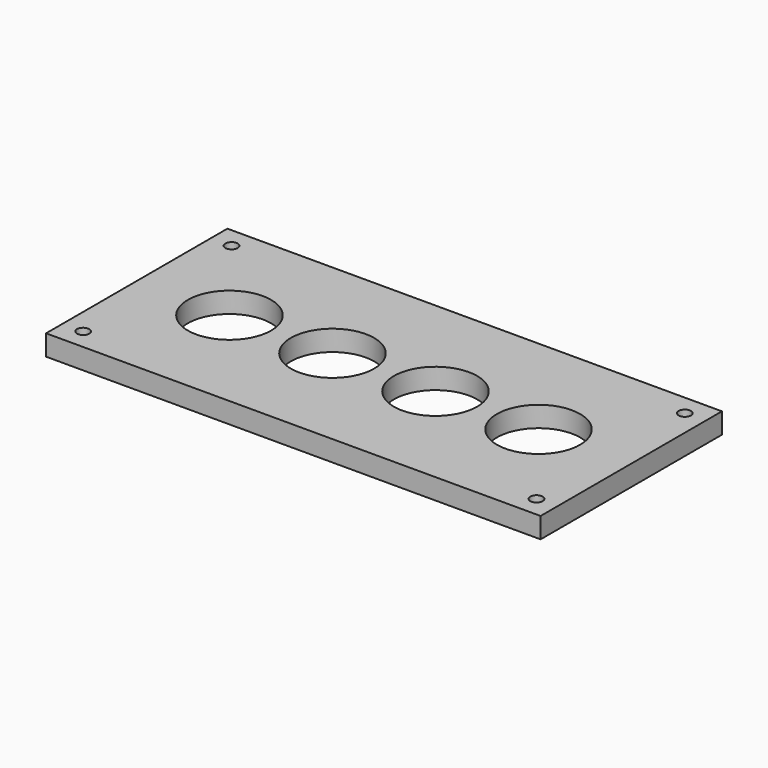
from build123d import *

# Parameters (mm, degrees)
F0_W     = 120
F0_H     = 55
F1_DEPTH = 5
F2_R     = 10.1
F3_DEPTH = 5.001
F4_R     = 1.5
F5_DEPTH = 5.001


with BuildPart() as f1:
    # F0 (on Top) → F1 (new body)
    with BuildSketch(Plane.XY):
        with Locations((60, 27.5)):
            Rectangle(F0_W, F0_H)
    extrude(amount=F1_DEPTH)

    # F2 (on face) → F3 (cut, through all)
    with BuildSketch(Plane.XY.offset(5)):
        with Locations((22.5, 27.5)):
            Circle(F2_R)
        with Locations((47.5, 27.5)):
            Circle(F2_R)
        with Locations((72.5, 27.5)):
            Circle(F2_R)
        with Locations((97.5, 27.5)):
            Circle(F2_R)
    extrude(amount=-F3_DEPTH, mode=Mode.SUBTRACT)

    # F4 (on face) → F5 (cut, through all)
    with BuildSketch(Plane.XY.offset(5)):
        with Locations((5, 50)):
            Circle(F4_R)
        with Locations((115, 50)):
            Circle(F4_R)
        with Locations((115, 5)):
            Circle(F4_R)
        with Locations((5, 5)):
            Circle(F4_R)
    extrude(amount=-F5_DEPTH, mode=Mode.SUBTRACT)


solid = f1.part
